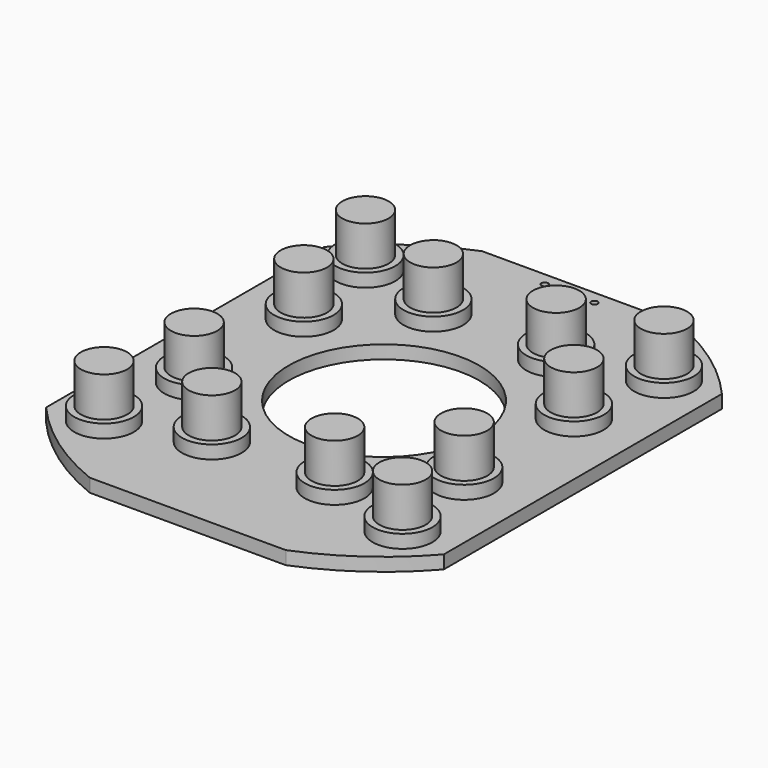
from build123d import *

# Parameters (mm, degrees)
F0_R     = 4.5
F0_R_2   = 0.5
F0_R_3   = 14.374555
F0_R_4   = 3.5
F1_DEPTH = 2
F2_DEPTH = 4
F3_DEPTH = 10


with BuildPart() as f1:
    # F0 (on Top) → F1 (new body)
    with BuildSketch(Plane.XY):
        with BuildLine():
            Line((14.788044, 37), (-14.788044, 37))
            ThreePointArc((-14.788044, 37), (-23.033106, 32.514032), (-30, 26.223772))
            Line((-30, 26.223772), (-30, -26.223772))
            ThreePointArc((-30, -26.223772), (-23.033106, -32.514032), (-14.788044, -37))
            Line((-14.788044, -37), (14.788044, -37))
            ThreePointArc((14.788044, -37), (23.033106, -32.514032), (30, -26.223772))
            Line((30, -26.223772), (30, 26.223772))
            ThreePointArc((30, 26.223772), (23.033106, 32.514032), (14.788044, 37))
        make_face()
        with Locations((-22.515905, -24.649267)):
            Circle(F0_R, mode=Mode.SUBTRACT)
        with Locations((-9.262975, -20.885396)):
            Circle(F0_R, mode=Mode.SUBTRACT)
        with Locations((-20.369261, -10.348704)):
            Circle(F0_R, mode=Mode.SUBTRACT)
        with Locations((9.262975, -20.885396)):
            Circle(F0_R, mode=Mode.SUBTRACT)
        with Locations((22.515905, -24.649267)):
            Circle(F0_R, mode=Mode.SUBTRACT)
        with Locations((20.369261, -10.348704)):
            Circle(F0_R, mode=Mode.SUBTRACT)
        with Locations((-20.369261, 10.348704)):
            Circle(F0_R, mode=Mode.SUBTRACT)
        with Locations((-22.515905, 24.649267)):
            Circle(F0_R, mode=Mode.SUBTRACT)
        with Locations((-9.262975, 20.885396)):
            Circle(F0_R, mode=Mode.SUBTRACT)
        with Locations((-3.75, 35)):
            Circle(F0_R_2, mode=Mode.SUBTRACT)
        with Locations((-1.25, 35)):
            Circle(F0_R_2, mode=Mode.SUBTRACT)
        Circle(F0_R_3, mode=Mode.SUBTRACT)
        with Locations((20.369261, 10.348704)):
            Circle(F0_R, mode=Mode.SUBTRACT)
        with Locations((9.262975, 20.885396)):
            Circle(F0_R, mode=Mode.SUBTRACT)
        with Locations((1.25, 35)):
            Circle(F0_R_2, mode=Mode.SUBTRACT)
        with Locations((3.75, 35)):
            Circle(F0_R_2, mode=Mode.SUBTRACT)
        with Locations((22.515905, 24.649267)):
            Circle(F0_R, mode=Mode.SUBTRACT)
        with Locations((-22.515905, 24.649267)):
            Circle(F0_R_4)
        with Locations((-9.262975, 20.885396)):
            Circle(F0_R_4)
        with Locations((9.262975, 20.885396)):
            Circle(F0_R_4)
        with Locations((20.369261, 10.348704)):
            Circle(F0_R_4)
        with Locations((20.369261, -10.348704)):
            Circle(F0_R_4)
        with Locations((22.515905, 24.649267)):
            Circle(F0_R_4)
        with Locations((9.262975, -20.885396)):
            Circle(F0_R_4)
        with Locations((22.515905, -24.649267)):
            Circle(F0_R_4)
        with Locations((-9.262975, -20.885396)):
            Circle(F0_R_4)
        with Locations((-20.369261, -10.348704)):
            Circle(F0_R_4)
        with Locations((-20.369261, 10.348704)):
            Circle(F0_R_4)
        with Locations((-22.515905, -24.649267)):
            Circle(F0_R_4)
        with Locations((-22.515905, -24.649267)):
            Circle(F0_R)
        with Locations((-22.515905, -24.649267)):
            Circle(F0_R_4, mode=Mode.SUBTRACT)
        with Locations((-9.262975, -20.885396)):
            Circle(F0_R)
        with Locations((-9.262975, -20.885396)):
            Circle(F0_R_4, mode=Mode.SUBTRACT)
        with Locations((-20.369261, -10.348704)):
            Circle(F0_R)
        with Locations((-20.369261, -10.348704)):
            Circle(F0_R_4, mode=Mode.SUBTRACT)
        with Locations((-20.369261, 10.348704)):
            Circle(F0_R)
        with Locations((-20.369261, 10.348704)):
            Circle(F0_R_4, mode=Mode.SUBTRACT)
        with Locations((-22.515905, 24.649267)):
            Circle(F0_R)
        with Locations((-22.515905, 24.649267)):
            Circle(F0_R_4, mode=Mode.SUBTRACT)
        with Locations((-9.262975, 20.885396)):
            Circle(F0_R)
        with Locations((-9.262975, 20.885396)):
            Circle(F0_R_4, mode=Mode.SUBTRACT)
        with Locations((9.262975, 20.885396)):
            Circle(F0_R)
        with Locations((9.262975, 20.885396)):
            Circle(F0_R_4, mode=Mode.SUBTRACT)
        with Locations((22.515905, 24.649267)):
            Circle(F0_R)
        with Locations((22.515905, 24.649267)):
            Circle(F0_R_4, mode=Mode.SUBTRACT)
        with Locations((20.369261, 10.348704)):
            Circle(F0_R)
        with Locations((20.369261, 10.348704)):
            Circle(F0_R_4, mode=Mode.SUBTRACT)
        with Locations((9.262975, -20.885396)):
            Circle(F0_R)
        with Locations((9.262975, -20.885396)):
            Circle(F0_R_4, mode=Mode.SUBTRACT)
        with Locations((22.515905, -24.649267)):
            Circle(F0_R)
        with Locations((22.515905, -24.649267)):
            Circle(F0_R_4, mode=Mode.SUBTRACT)
        with Locations((20.369261, -10.348704)):
            Circle(F0_R)
        with Locations((20.369261, -10.348704)):
            Circle(F0_R_4, mode=Mode.SUBTRACT)
    extrude(amount=F1_DEPTH)

    # F0 (on Top) → F2 (join)
    with BuildSketch(Plane.XY):
        with Locations((-22.515905, 24.649267)):
            Circle(F0_R)
        with Locations((-22.515905, 24.649267)):
            Circle(F0_R_4, mode=Mode.SUBTRACT)
        with Locations((-9.262975, 20.885396)):
            Circle(F0_R)
        with Locations((-9.262975, 20.885396)):
            Circle(F0_R_4, mode=Mode.SUBTRACT)
        with Locations((-20.369261, 10.348704)):
            Circle(F0_R)
        with Locations((-20.369261, 10.348704)):
            Circle(F0_R_4, mode=Mode.SUBTRACT)
        with Locations((9.262975, 20.885396)):
            Circle(F0_R)
        with Locations((9.262975, 20.885396)):
            Circle(F0_R_4, mode=Mode.SUBTRACT)
        with Locations((20.369261, 10.348704)):
            Circle(F0_R)
        with Locations((20.369261, 10.348704)):
            Circle(F0_R_4, mode=Mode.SUBTRACT)
        with Locations((22.515905, 24.649267)):
            Circle(F0_R)
        with Locations((22.515905, 24.649267)):
            Circle(F0_R_4, mode=Mode.SUBTRACT)
        with Locations((20.369261, -10.348704)):
            Circle(F0_R)
        with Locations((20.369261, -10.348704)):
            Circle(F0_R_4, mode=Mode.SUBTRACT)
        with Locations((9.262975, -20.885396)):
            Circle(F0_R)
        with Locations((9.262975, -20.885396)):
            Circle(F0_R_4, mode=Mode.SUBTRACT)
        with Locations((22.515905, -24.649267)):
            Circle(F0_R)
        with Locations((22.515905, -24.649267)):
            Circle(F0_R_4, mode=Mode.SUBTRACT)
        with Locations((-22.515905, -24.649267)):
            Circle(F0_R)
        with Locations((-22.515905, -24.649267)):
            Circle(F0_R_4, mode=Mode.SUBTRACT)
        with Locations((-9.262975, -20.885396)):
            Circle(F0_R)
        with Locations((-9.262975, -20.885396)):
            Circle(F0_R_4, mode=Mode.SUBTRACT)
        with Locations((-20.369261, -10.348704)):
            Circle(F0_R)
        with Locations((-20.369261, -10.348704)):
            Circle(F0_R_4, mode=Mode.SUBTRACT)
    extrude(amount=F2_DEPTH)

    # F0 (on Top) → F3 (join)
    with BuildSketch(Plane.XY):
        with Locations((-22.515905, 24.649267)):
            Circle(F0_R_4)
        with Locations((-20.369261, 10.348704)):
            Circle(F0_R_4)
        with Locations((-9.262975, 20.885396)):
            Circle(F0_R_4)
        with Locations((9.262975, 20.885396)):
            Circle(F0_R_4)
        with Locations((22.515905, 24.649267)):
            Circle(F0_R_4)
        with Locations((20.369261, 10.348704)):
            Circle(F0_R_4)
        with Locations((20.369261, -10.348704)):
            Circle(F0_R_4)
        with Locations((22.515905, -24.649267)):
            Circle(F0_R_4)
        with Locations((9.262975, -20.885396)):
            Circle(F0_R_4)
        with Locations((-9.262975, -20.885396)):
            Circle(F0_R_4)
        with Locations((-20.369261, -10.348704)):
            Circle(F0_R_4)
        with Locations((-22.515905, -24.649267)):
            Circle(F0_R_4)
    extrude(amount=F3_DEPTH)


solid = f1.part
